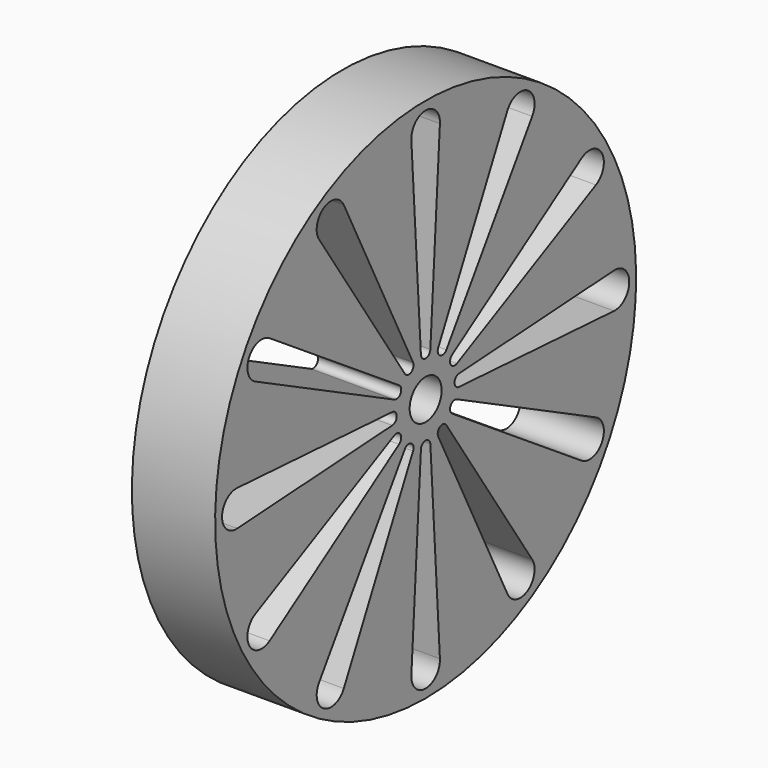
from build123d import *

# Parameters (mm, degrees)
SKETCH002_R             = 15.8
SKETCH002_R_2           = 1.2
PAD002_DEPTH            = 5
POCKET_DEPTH            = 5
POLARPATTERN_COUNT      = 12
BODY002_PLACEMENT_ANGLE = 90


with BuildPart() as part:
    # Sketch002 → Pad002 (new body)
    with BuildSketch(Plane.XY):
        Circle(SKETCH002_R)
        Circle(SKETCH002_R_2, mode=Mode.SUBTRACT)
    extrude(amount=PAD002_DEPTH)

    # Sketch003 (on Face4 of Pad002) → Pocket (cut)
    with BuildSketch(Plane.XY.offset(5)):
        with BuildLine():
            ThreePointArc((-0.354655, 2.503453), (0, 2.169967), (0.354655, 2.503453))
            Line((0.354655, 2.503453), (1.071428, 14.142374))
            ThreePointArc((1.071428, 14.142374), (0, 15.281815), (-1.071428, 14.142374))
            Line((-0.354655, 2.503453), (-1.071428, 14.142374))
        make_face()
    pocket = extrude(amount=-POCKET_DEPTH, mode=Mode.SUBTRACT)

    # PolarPattern: Pocket ×12 about axis
    polarpattern_axis = Axis((0, 0, 0), (0, 0, 1))
    for i in range(1, POLARPATTERN_COUNT):
        add(pocket.rotate(polarpattern_axis, i * 360 / POLARPATTERN_COUNT), mode=Mode.SUBTRACT)


with BuildPart() as part_1:
    # Body002 placement: moved
    add(part.part.moved(Location((31, -67, 14))).rotate(Axis((31, -67, 14), (0, 1, 0)), BODY002_PLACEMENT_ANGLE))


solid = part_1.part
